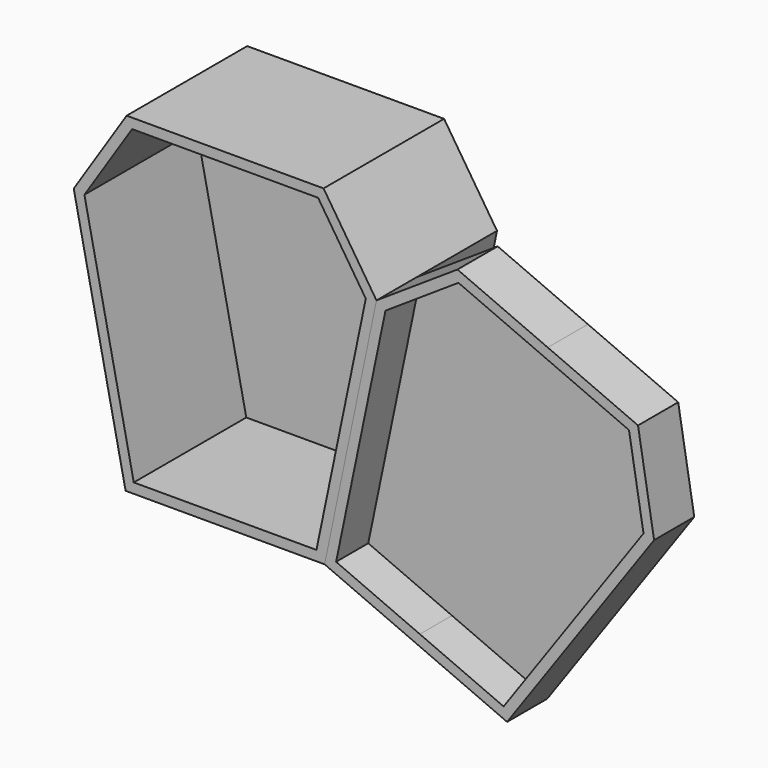
from build123d import *

# Parameters (mm, degrees)
F1_DEPTH = 76.2
F2_DEPTH = 25.4
F3_T     = -5.08
F4_T     = -5.08


with BuildPart() as f1:
    # F0 (on Front) → F1 (new body)
    with BuildSketch(Plane.XZ):
        Polygon((49.790394, 0), (0, 0), (-49.790394, 0), (-76.556332, -41.156225), (-50.323382, -167.208984), (0, -167.208984), (50.323382, -167.208984), (76.556332, -41.156225), align=None)
    extrude(amount=-F1_DEPTH)

    # F3
    f3_openings = [f1.faces().sort_by_distance(p)[0] for p in [
        (0, 0, -80.748341),
    ]]
    offset(amount=F3_T, openings=f3_openings)


with BuildPart() as f2:
    # F0 (on Front) → F2 (new body)
    with BuildSketch(Plane.XZ):
        Polygon((117.51905, -14.09507), (76.556332, -41.156225), (50.323382, -167.208984), (96.468692, -187.285169), (142.614001, -207.361353), (216.956899, -102.239521), (208.832195, -53.822174), (163.175622, -33.958622), align=None)
    extrude(amount=-F2_DEPTH)

    # F4
    f4_openings = [f2.faces().sort_by_distance(p)[0] for p in [
        (130.9616, 0, -108.002875),
    ]]
    offset(amount=F4_T, openings=f4_openings)


solid = Compound([f1.part, f2.part])
